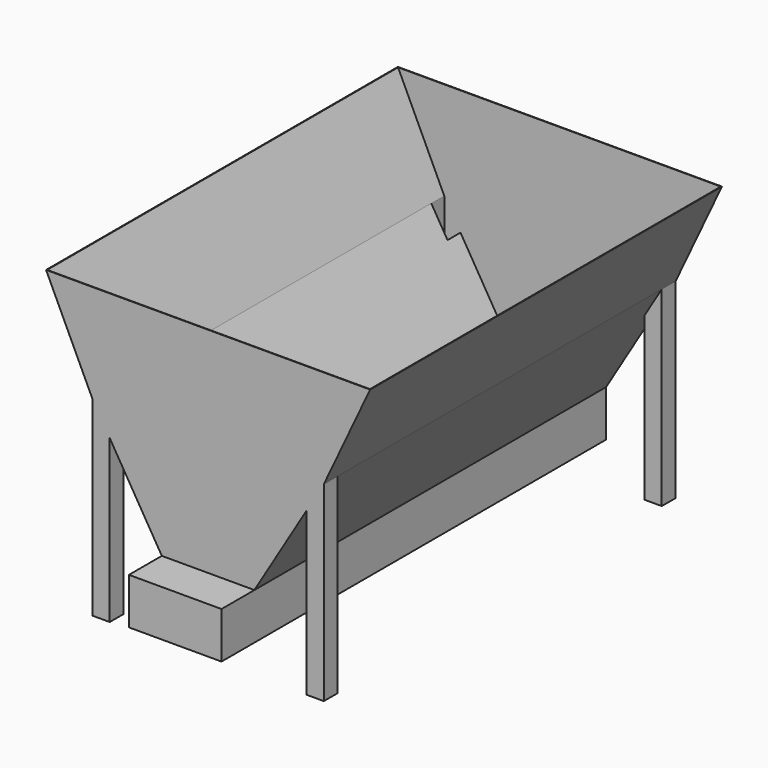
from build123d import *

# Parameters (mm, degrees)
F1_DEPTH = 1930.4
F3_W     = 76.2
F3_H     = 76.2
F5_W     = 406.4
F5_H     = 203.2
F6_DEPTH = 180.34
F7_T     = -2.54


with BuildPart() as f1:
    # F0 (on Front) → F1 (new body)
    with BuildSketch(Plane.XZ):
        Polygon((-203.2, 0), (0, 0), (203.2, 0), (203.2, 203.2), (508, 711.2), (711.2, 1143), (0, 1143), (-711.2, 1143), (-508, 711.2), (-203.2, 203.2), align=None)
    extrude(amount=F1_DEPTH)

    # F3 (on offset) → F4 (join, up to the next surface of F1)
    with BuildSketch(Plane(origin=(0, 0, -127), x_dir=(1, 0, 0), z_dir=(0, 0, -1))):
        with Locations((-469.9, 1892.3)):
            Rectangle(F3_W, F3_H)
        with Locations((469.9, 1892.3)):
            Rectangle(F3_W, F3_H)
        with Locations((469.9, 38.1)):
            Rectangle(F3_W, F3_H)
        with Locations((-469.9, 38.1)):
            Rectangle(F3_W, F3_H)
    extrude(until=Until.NEXT, dir=(0, 0, 1))

    # F5 (on face) → F6 (join)
    with BuildSketch(Plane.XZ.offset(1930.4)):
        with Locations((0, 101.6)):
            Rectangle(F5_W, F5_H)
    extrude(amount=F6_DEPTH)

    # F7
    f7_openings = [f1.faces().sort_by_distance(p)[0] for p in [
        (0, -965.2, 1143),
    ]]
    offset(amount=F7_T, openings=f7_openings, kind=Kind.INTERSECTION)


solid = f1.part
